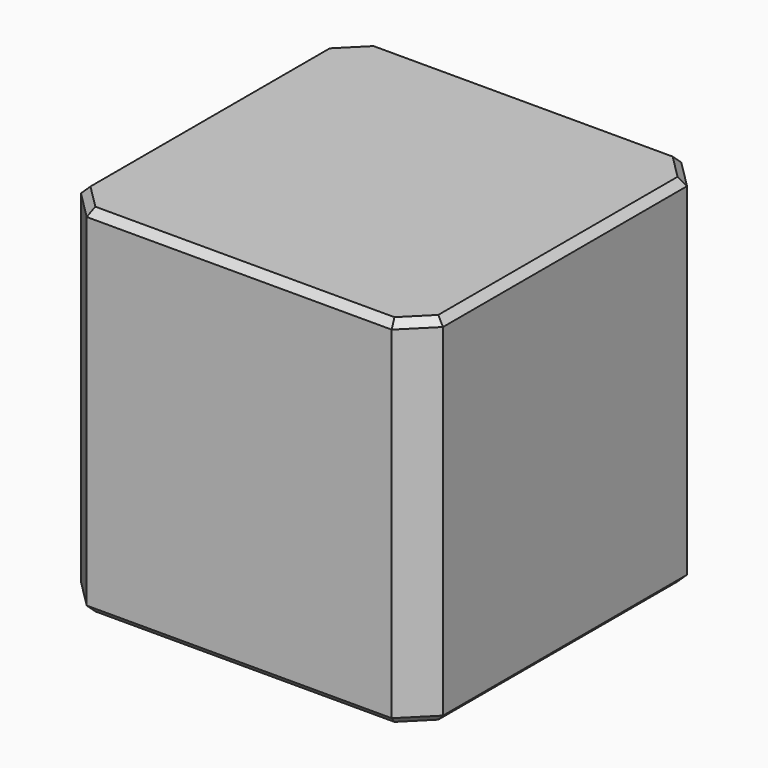
from build123d import *

# Parameters (mm, degrees)
SKETCH214_W     = 2.54
SKETCH214_H     = 2.54
PAD085_DEPTH    = 2.5
CHAMFER023_SIZE = 0.2
CHAMFER022_SIZE = 0.05


with BuildPart() as part:
    # Sketch214 → Pad085 (new body)
    with BuildSketch(Plane.XY):
        Rectangle(SKETCH214_W, SKETCH214_H)
    extrude(amount=PAD085_DEPTH)

    # Chamfer023
    chamfer023_edges = [part.edges().sort_by_distance(p)[0] for p in [
        (1.27, -1.27, 1.25),
        (-1.27, -1.27, 1.25),
        (1.27, 1.27, 1.25),
        (-1.27, 1.27, 1.25),
    ]]
    chamfer(chamfer023_edges, length=CHAMFER023_SIZE)

    # Chamfer022
    chamfer022_edges = [part.edges().sort_by_distance(p)[0] for p in [
        (0, -1.27, 2.5),
        (-1.17, -1.17, 2.5),
        (1.17, -1.17, 2.5),
        (-1.27, 0, 2.5),
        (1.27, 0, 2.5),
        (-1.17, 1.17, 2.5),
        (1.17, 1.17, 2.5),
        (0, 1.27, 2.5),
        (0, -1.27, 0),
        (-1.17, -1.17, 0),
        (1.17, -1.17, 0),
        (-1.27, 0, 0),
        (1.27, 0, 0),
        (-1.17, 1.17, 0),
        (1.17, 1.17, 0),
        (0, 1.27, 0),
    ]]
    chamfer(chamfer022_edges, length=CHAMFER022_SIZE)


solid = part.part
